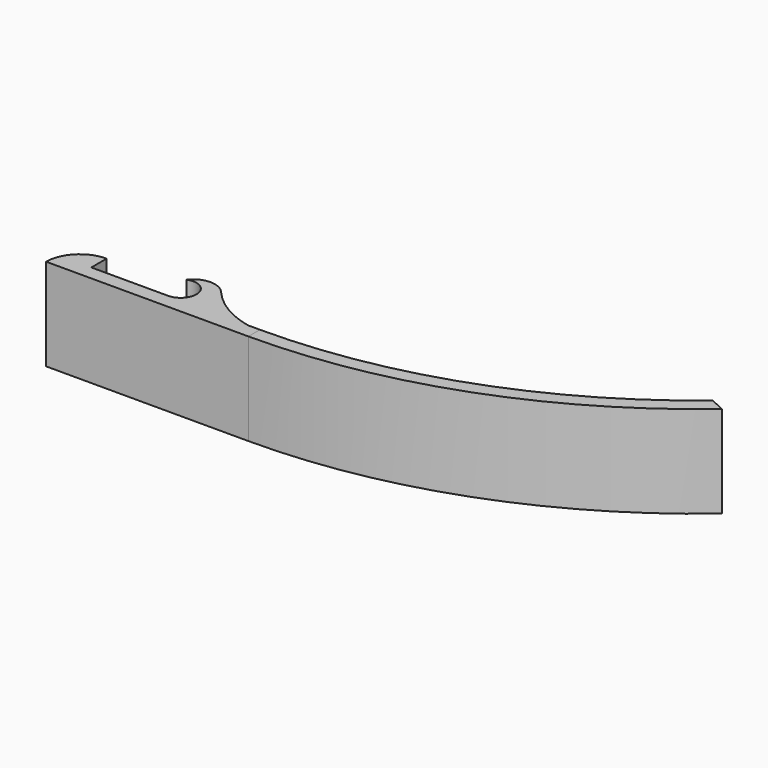
from build123d import *

# Parameters (mm, degrees)
F1_DEPTH = 14.5
F3_DEPTH = 14.5


with BuildPart() as f1:
    # F0 (on Top) → F1 (new body)
    with BuildSketch(Plane.XY):
        with BuildLine():
            Line((-11.962387, 15.822727), (-11.962387, 18.842727))
            ThreePointArc((-11.962387, 18.842727), (-15.710053, 17.290393), (-17.262387, 13.542727))
            Line((-17.262387, 13.542727), (-11.962387, 13.542727))
            Line((-11.962387, 13.542727), (2.65536, 13.542727))
            Line((2.65536, 13.542727), (14.572221, 13.542727))
            Line((14.572221, 13.542727), (14.572221, 15.822727))
            Line((14.572221, 15.822727), (12.69379, 15.822727))
            ThreePointArc((12.69379, 15.822727), (8.27333, 17.550703), (4.639153, 20.603426))
            ThreePointArc((4.639153, 20.603426), (1.901023, 21.918946), (-0.82729, 20.583184))
            ThreePointArc((-0.82729, 20.583184), (2.549764, 18.782042), (0.122613, 15.822727))
            Line((0.122613, 15.822727), (-11.962387, 15.822727))
        make_face()
    extrude(amount=F1_DEPTH)


with BuildPart() as f3:
    # F2 (on face) → F3 (new body)
    with BuildSketch(Plane.XY.offset(14.5)):
        with BuildLine():
            ThreePointArc((69.776602, 35.869812), (43.938057, 20.989656), (14.572221, 15.822727))
            Line((14.572221, 15.822727), (14.572221, 13.542727))
            ThreePointArc((14.572221, 13.542727), (45.225949, 19.033438), (72.067976, 34.822818))
            Line((72.067976, 34.822818), (69.776602, 35.869812))
        make_face()
    extrude(amount=-F3_DEPTH)


solid = Compound([f1.part, f3.part])
